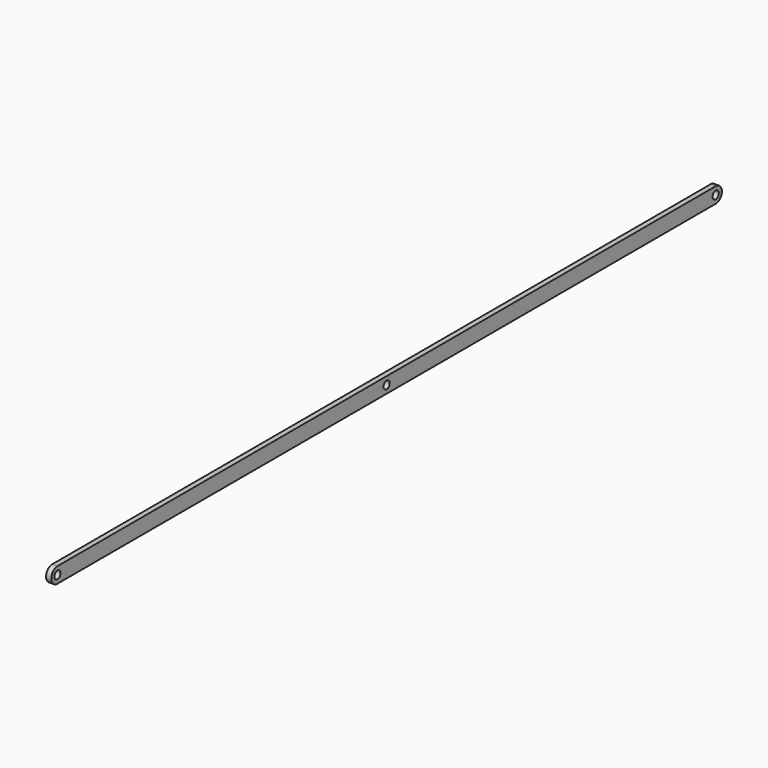
from build123d import *

# Parameters (mm, degrees)
F0_R     = 2.38125
F1_DEPTH = 3.175


with BuildPart() as f1:
    # F0 (on Right) → F1 (new body)
    with BuildSketch(Plane.YZ):
        with BuildLine():
            Line((505.190684, 4.7625), (0, 4.7625))
            ThreePointArc((0, 4.7625), (-4.7625, 0), (0, -4.7625))
            Line((0, -4.7625), (505.190684, -4.7625))
            ThreePointArc((505.190684, -4.7625), (509.953184, 0), (505.190684, 4.7625))
        make_face()
        Circle(F0_R, mode=Mode.SUBTRACT)
        with Locations((252.595342, 0)):
            Circle(F0_R, mode=Mode.SUBTRACT)
        with Locations((505.190684, 0)):
            Circle(F0_R, mode=Mode.SUBTRACT)
    extrude(amount=F1_DEPTH)


solid = f1.part
